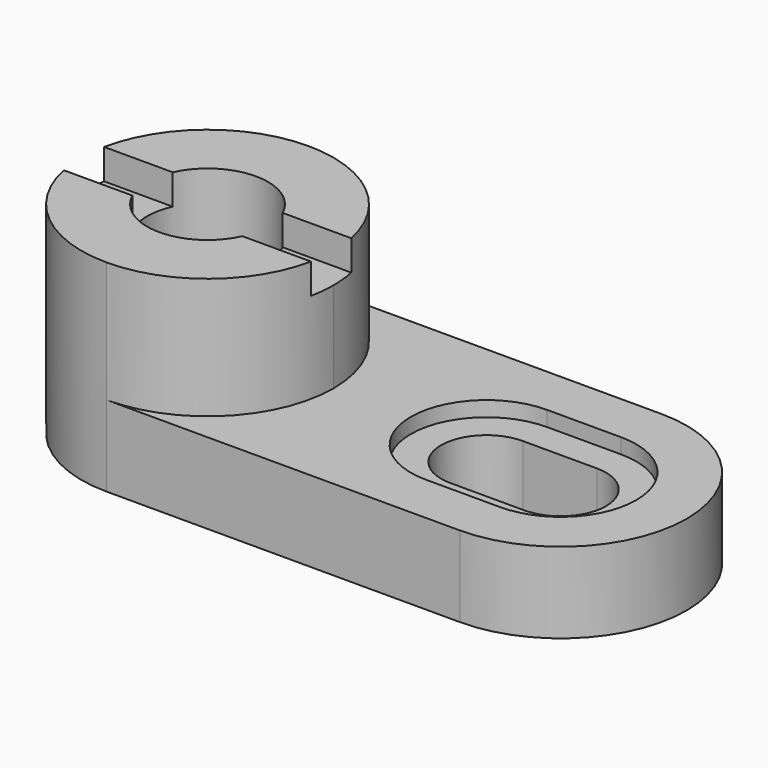
from build123d import *

# Parameters (mm, degrees)
F0_R     = 6
F1_DEPTH = 8
F3_DEPTH = 1.5
F4_R     = 6
F5_DEPTH = 12
F7_DEPTH = 3


with BuildPart() as f1:
    # F0 (on Top) → F1 (new body)
    with BuildSketch(Plane.XY):
        with BuildLine():
            Line((47.5, 0), (12.5, 0))
            ThreePointArc((12.5, 0), (0, -12.5), (12.5, -25))
            Line((12.5, -25), (47.5, -25))
            ThreePointArc((47.5, -25), (60, -12.5), (47.5, 0))
        make_face()
        with Locations((12.5, -12.5)):
            Circle(F0_R, mode=Mode.SUBTRACT)
        with BuildLine():
            ThreePointArc((47.5, -8), (52, -12.5), (47.5, -17))
            Line((47.5, -17), (40.1489207149, -17))
            ThreePointArc((40.1489207149, -17), (35.6489207149, -12.5), (40.1489207149, -8))
            Line((40.1489207149, -8), (47.5, -8))
        make_face(mode=Mode.SUBTRACT)
    extrude(amount=F1_DEPTH)

    # F2 (on face) → F3 (cut)
    with BuildSketch(Plane.XY.offset(8)):
        with BuildLine():
            Line((40.1489207149, -20), (47.5, -20))
            ThreePointArc((47.5, -20), (55, -12.5), (47.5, -5))
            Line((47.5, -5), (40.1489207149, -5))
            ThreePointArc((40.1489207149, -5), (32.6489207149, -12.5), (40.1489207149, -20))
        make_face()
        with BuildLine():
            Line((47.5, -17), (40.1489207149, -17))
            ThreePointArc((40.1489207149, -17), (35.6489207149, -12.5), (40.1489207149, -8))
            Line((40.1489207149, -8), (47.5, -8))
            ThreePointArc((47.5, -8), (52, -12.5), (47.5, -17))
        make_face(mode=Mode.SUBTRACT)
    extrude(amount=-F3_DEPTH, mode=Mode.SUBTRACT)

    # F4 (on face) → F5 (join)
    with BuildSketch(Plane.XY.offset(8)):
        with BuildLine():
            ThreePointArc((12.5, -25), (21.3388347648, -21.3388347648), (25, -12.5))
            ThreePointArc((25, -12.5), (21.3388347648, -3.6611652352), (12.5, 0))
            ThreePointArc((12.5, 0), (0, -12.5), (12.5, -25))
        make_face()
        with Locations((12.5, -12.5)):
            Circle(F4_R, mode=Mode.SUBTRACT)
    extrude(amount=F5_DEPTH)

    # F6 (on face) → F7 (cut)
    with BuildSketch(Plane.XY.offset(20)):
        with BuildLine():
            Line((17.9543560573, -15), (24.7474487139, -15))
            ThreePointArc((24.7474487139, -15), (24.9367019126, -13.7563620251), (25, -12.5))
            ThreePointArc((25, -12.5), (24.9367019126, -11.2436379749), (24.7474487139, -10))
            Line((24.7474487139, -10), (17.9543560573, -10))
            ThreePointArc((17.9543560573, -10), (18.3620020617, -11.2205736332), (18.5, -12.5))
            ThreePointArc((18.5, -12.5), (18.3620020617, -13.7794263668), (17.9543560573, -15))
        make_face()
        with BuildLine():
            ThreePointArc((0.2525512861, -10), (0, -12.5), (0.2525512861, -15))
            Line((0.2525512861, -15), (7.0456439427, -15))
            ThreePointArc((7.0456439427, -15), (6.5, -12.5), (7.0456439427, -10))
            Line((7.0456439427, -10), (0.2525512861, -10))
        make_face()
    extrude(amount=-F7_DEPTH, mode=Mode.SUBTRACT)


solid = f1.part
